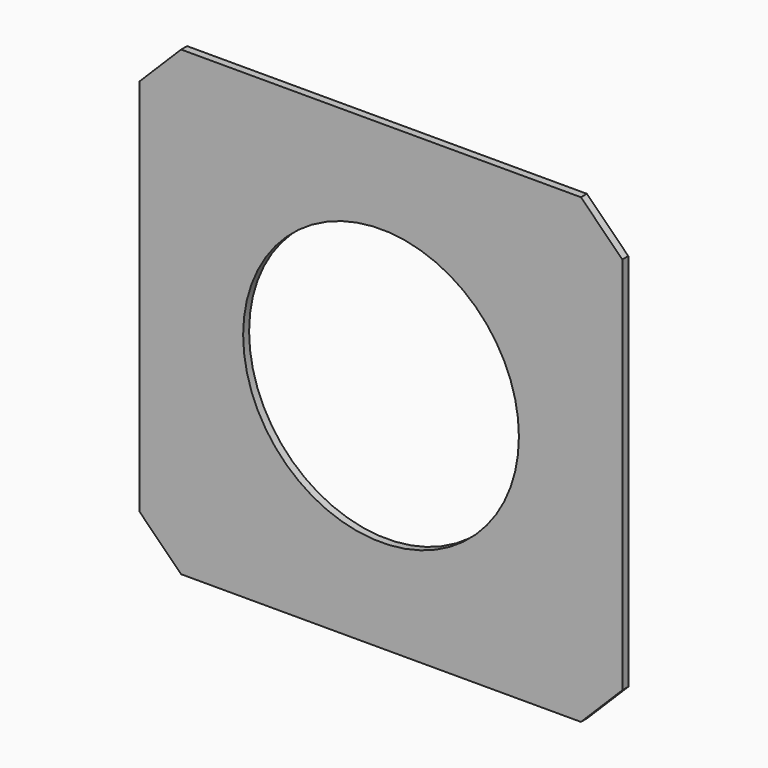
from build123d import *

# Parameters (mm, degrees)
F0_W     = 222.25
F0_H     = 212.725
F0_R     = 63.5
F1_DEPTH = 3.429
F2_SIZE  = 19.05


with BuildPart() as f1:
    # F0 (on Front) → F1 (new body)
    with BuildSketch(Plane.XZ):
        Rectangle(F0_W, F0_H)
        Circle(F0_R, mode=Mode.SUBTRACT)
    extrude(amount=F1_DEPTH)

    # F2
    f2_edges = [f1.edges().sort_by_distance(p)[0] for p in [
        (-111.125, -1.7145, 106.3625),
        (111.125, -1.7145, 106.3625),
        (-111.125, -1.7145, -106.3625),
        (111.125, -1.7145, -106.3625),
    ]]
    chamfer(f2_edges, length=F2_SIZE)


solid = f1.part
